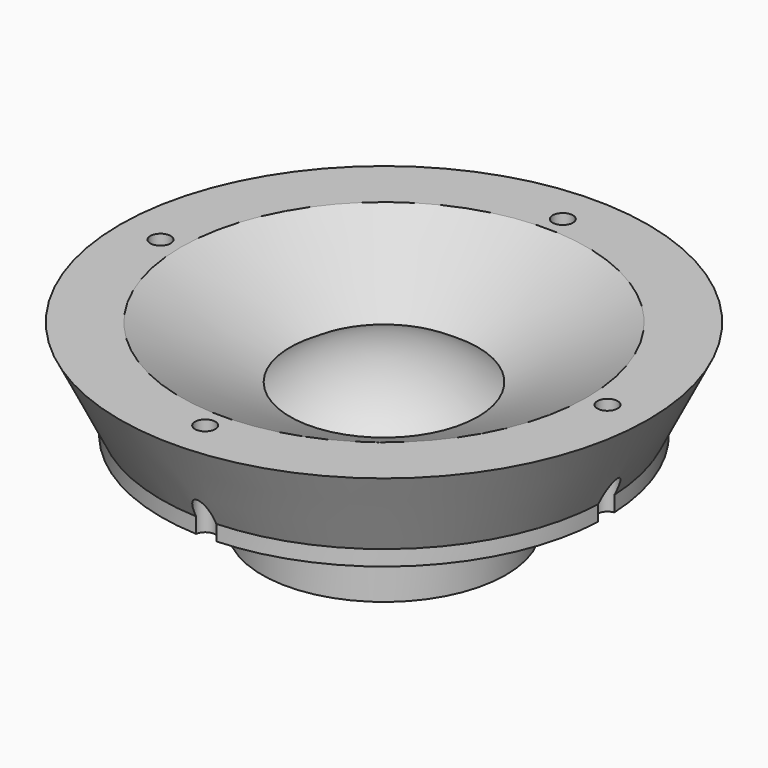
from build123d import *

# Parameters (mm, degrees)
F2_R     = 0.5
F3_DEPTH = 9.001


with BuildPart() as f1:
    # F0 (on Front) → F1 (revolve)
    with BuildSketch(Plane.XZ):
        with BuildLine():
            Line((0, 7.9038056729), (0, 0))
            Line((0, 0), (6, 0))
            Line((6, 0), (6, 2))
            Line((6, 2), (6.745791994, 2))
            Line((6.745791994, 2), (6.745791994, 3.1554037705))
            Line((6.745791994, 3.1554037705), (8.014109917, 3.1554037705))
            Line((8.014109917, 3.1554037705), (8.014109917, 4.1110240854))
            Line((8.014109917, 4.1110240854), (10.95017232, 4.1110240854))
            Line((10.95017232, 4.1110240854), (10.95017232, 4.8688049763))
            Line((10.95017232, 4.8688049763), (13, 9))
            Line((13, 9), (10, 9))
            Line((10, 9), (4.6267379075, 6.4080761895))
            ThreePointArc((4.6267379075, 6.4080761895), (2.4312502109, 7.5205828582), (0, 7.9038056729))
        make_face()
    revolve(axis=Axis((0, 0, 3.9519028364), (0, 0, 1)))

    # F2 (on face) → F3 (cut, through all)
    with BuildSketch(Plane.XY.offset(9)):
        with Locations((0, 11)):
            Circle(F2_R)
        with Locations((-11, 0)):
            Circle(F2_R)
        with Locations((0, -11)):
            Circle(F2_R)
        with Locations((11, 0)):
            Circle(F2_R)
    extrude(amount=-F3_DEPTH, mode=Mode.SUBTRACT)


solid = f1.part
